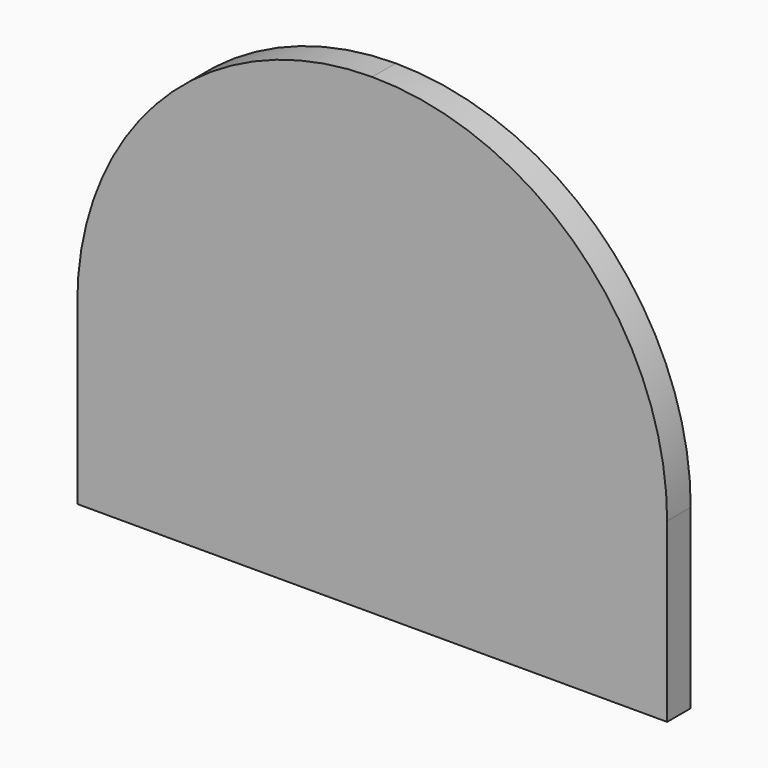
from build123d import *

# Parameters (mm, degrees)
F1_DEPTH = 12.7


with BuildPart() as f1:
    # F0 (on Front) → F1 (new body)
    with BuildSketch(Plane.XZ):
        with BuildLine():
            Line((-114.598433, 76.2), (-114.598433, 0))
            Line((-114.598433, 0), (139.401567, 0))
            Line((139.401567, 0), (139.401567, 76.2))
            ThreePointArc((139.401567, 76.2), (102.204129, 166.002561), (12.401567, 203.2))
            ThreePointArc((12.401567, 203.2), (-77.400994, 166.002561), (-114.598433, 76.2))
        make_face()
    extrude(amount=F1_DEPTH)


solid = f1.part
